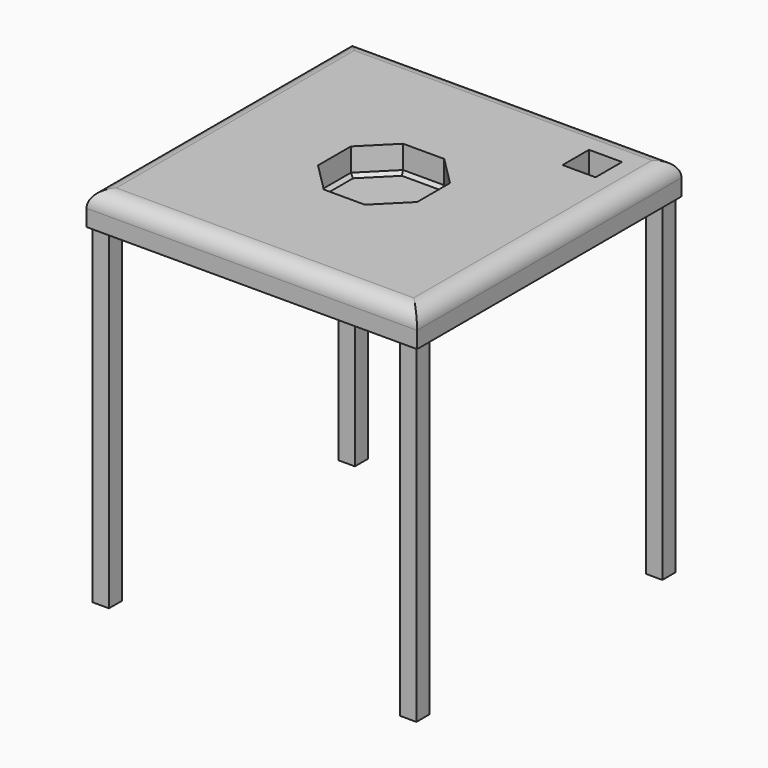
from build123d import *

# Parameters (mm, degrees)
F0_W     = 1000
F0_H     = 1000
F0_W_2   = 100
F0_H_2   = 100
F1_DEPTH = 100
F2_R     = 50
F4_DEPTH = 20
F5_W     = 50
F5_H     = 50
F6_DEPTH = 1000
F7_SIZE  = 10


with BuildPart() as f1:
    # F0 (on Top) → F1 (new body)
    with BuildSketch(Plane.XY):
        Rectangle(F0_W, F0_H)
        Polygon((62.132034, 150), (150, 62.132034), (150, -62.132034), (62.132034, -150), (-62.132034, -150), (-150, -62.132034), (-150, 62.132034), (-62.132034, 150), align=None, mode=Mode.SUBTRACT)
        with Locations((350, 350)):
            Rectangle(F0_W_2, F0_H_2, mode=Mode.SUBTRACT)
    extrude(amount=F1_DEPTH)

    # F2
    f2_edges = [f1.edges().sort_by_distance(p)[0] for p in [
        (0, -500, 100),
        (-500, 0, 100),
        (0, 500, 100),
        (500, 0, 100),
    ]]
    fillet(f2_edges, radius=F2_R)

    # F3 (on face) → F4 (join)
    with BuildSketch(Plane(origin=(0, 0, 0), x_dir=(1, 0, 0), z_dir=(0, 0, -1))):
        Polygon((150, -62.132034), (150, 62.132034), (62.132034, 150), (-62.132034, 150), (-150, 62.132034), (-150, -62.132034), (-62.132034, -150), (62.132034, -150), align=None)
    extrude(amount=-F4_DEPTH)

    # F5 (on face) → F6 (join)
    with BuildSketch(Plane(origin=(0, 0, 0), x_dir=(1, 0, 0), z_dir=(0, 0, -1))):
        with Locations((-465, 465)):
            Rectangle(F5_W, F5_H)
        with Locations((-465, -465)):
            Rectangle(F5_W, F5_H)
        with Locations((465, -465)):
            Rectangle(F5_W, F5_H)
        with Locations((465, 465)):
            Rectangle(F5_W, F5_H)
    extrude(amount=F6_DEPTH)

    # F7
    f7_edges = [f1.edges().sort_by_distance(p)[0] for p in [
        (150, 0, 20),
        (106.066017, -106.066017, 20),
        (0, -150, 20),
        (-106.066017, -106.066017, 20),
        (-150, 0, 20),
        (-106.066017, 106.066017, 20),
        (0, 150, 20),
        (106.066017, 106.066017, 20),
    ]]
    chamfer(f7_edges, length=F7_SIZE)


solid = f1.part
